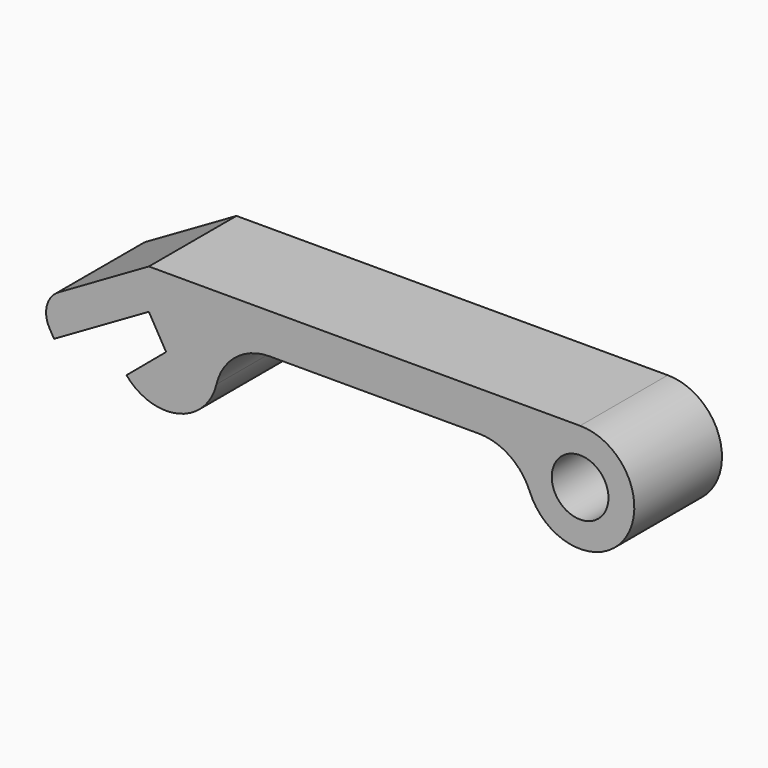
from build123d import *

# Parameters (mm, degrees)
F0_R     = 3.285362
F1_DEPTH = 12.7


with BuildPart() as f1:
    # F0 (on Front) → F1 (new body)
    with BuildSketch(Plane.XZ):
        with BuildLine():
            Line((50, 0), (0, 0))
            Line((0, 0), (-10.45666, -6.037156))
            ThreePointArc((-10.45666, -6.037156), (-11.819814, -7.813652), (-11.527537, -10.033721))
            Line((-11.527537, -10.033721), (-10.990381, -10.964102))
            Line((-10.990381, -10.964102), (0, -4.618802))
            Line((0, -4.618802), (2, -8.082904))
            Line((2, -8.082904), (-2.596267, -11.939629))
            ThreePointArc((-2.596267, -11.939629), (3.37451, -13.923342), (7.833887, -9.48496))
            ThreePointArc((7.833887, -9.48496), (10.077429, -5.981573), (14.008084, -4.618802))
            Line((14.008084, -4.618802), (38.262986, -4.618802))
            ThreePointArc((38.262986, -4.618802), (41.825396, -5.712212), (44.160979, -8.615893))
            ThreePointArc((44.160979, -8.615893), (55.204032, -9.8133), (50, 0))
        make_face()
        with Locations((50, -6.286509)):
            Circle(F0_R, mode=Mode.SUBTRACT)
    extrude(amount=F1_DEPTH)


solid = f1.part
